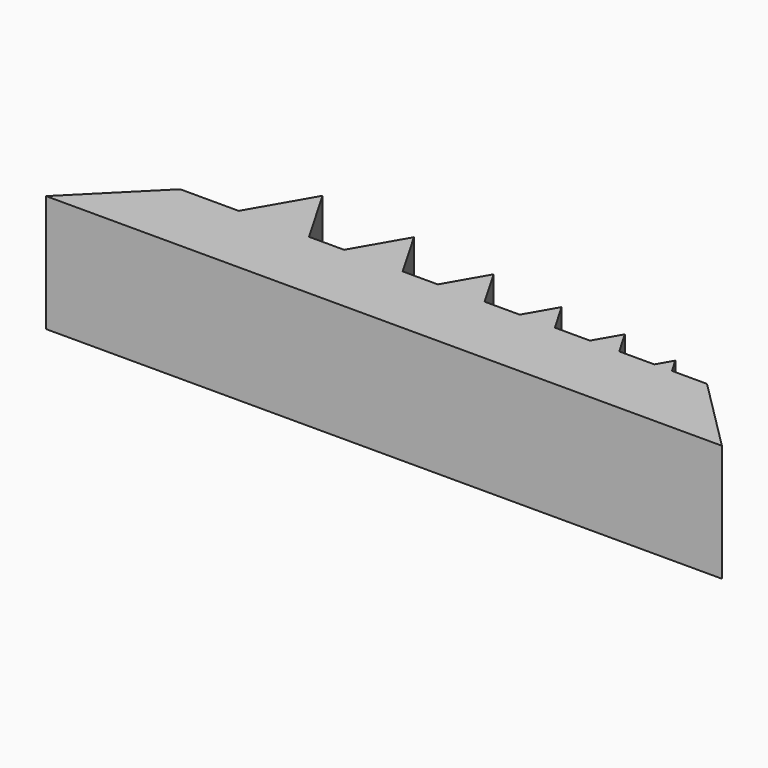
from build123d import *

# Parameters (mm, degrees)
F1_DEPTH = 100


with BuildPart() as f1:
    # F0 (on Top) → F1 (new body)
    with BuildSketch(Plane.XY):
        Polygon((-63.63961, -513.63961), (513.63961, -513.63961), (450, -450), (420, -450), (405, -450), (375, -450), (350, -450), (320, -450), (290, -450), (260, -450), (220, -450), (190, -450), (140, -450), (110, -450), (50, -450), (0, -450), align=None)
        Polygon((80, -398.038476), (50, -450), (110, -450), align=None)
        Polygon((165, -406.69873), (140, -450), (190, -450), align=None)
        Polygon((240, -415.358984), (220, -450), (260, -450), align=None)
        Polygon((290, -450), (320, -450), (305, -424.019238), align=None)
        Polygon((350, -450), (375, -450), (362.5, -428.349365), align=None)
        Polygon((405, -450), (420, -450), (412.5, -437.009619), align=None)
    extrude(amount=F1_DEPTH)


solid = f1.part
